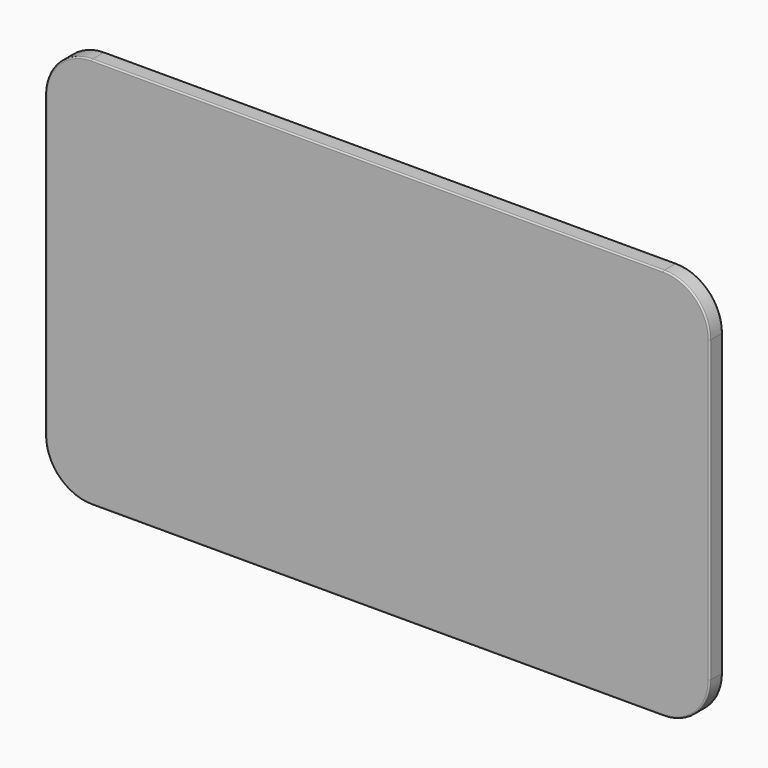
from build123d import *

# Parameters (mm, degrees)
F1_DEPTH = 19.05
F2_R     = 3.3528


with BuildPart() as f1:
    # F0 (on Front) → F1 (new body, symmetric)
    with BuildSketch(Plane.XZ):
        with BuildLine():
            Line((666.75, 457.2), (-666.75, 457.2))
            ThreePointArc((-666.75, 457.2), (-743.082177, 425.582177), (-774.7, 349.25))
            Line((-774.7, 349.25), (-774.7, -349.25))
            ThreePointArc((-774.7, -349.25), (-743.082177, -425.582177), (-666.75, -457.2))
            Line((-666.75, -457.2), (666.75, -457.2))
            ThreePointArc((666.75, -457.2), (743.082177, -425.582177), (774.7, -349.25))
            Line((774.7, -349.25), (774.7, 349.25))
            ThreePointArc((774.7, 349.25), (743.082177, 425.582177), (666.75, 457.2))
        make_face()
    extrude(amount=F1_DEPTH, both=True)

    # F2
    f2_edges = [f1.edges().sort_by_distance(p)[0] for p in [
        (0, -19.05, 457.2),
        (-743.082177, -19.05, 425.582177),
        (-774.7, -19.05, 0),
        (-743.082177, -19.05, -425.582177),
        (0, -19.05, -457.2),
        (743.082177, -19.05, -425.582177),
        (774.7, -19.05, 0),
        (743.082177, -19.05, 425.582177),
        (0, 19.05, 457.2),
        (-743.082177, 19.05, 425.582177),
        (-774.7, 19.05, 0),
        (-743.082177, 19.05, -425.582177),
        (0, 19.05, -457.2),
        (743.082177, 19.05, -425.582177),
        (774.7, 19.05, 0),
        (743.082177, 19.05, 425.582177),
    ]]
    fillet(f2_edges, radius=F2_R)


solid = f1.part
